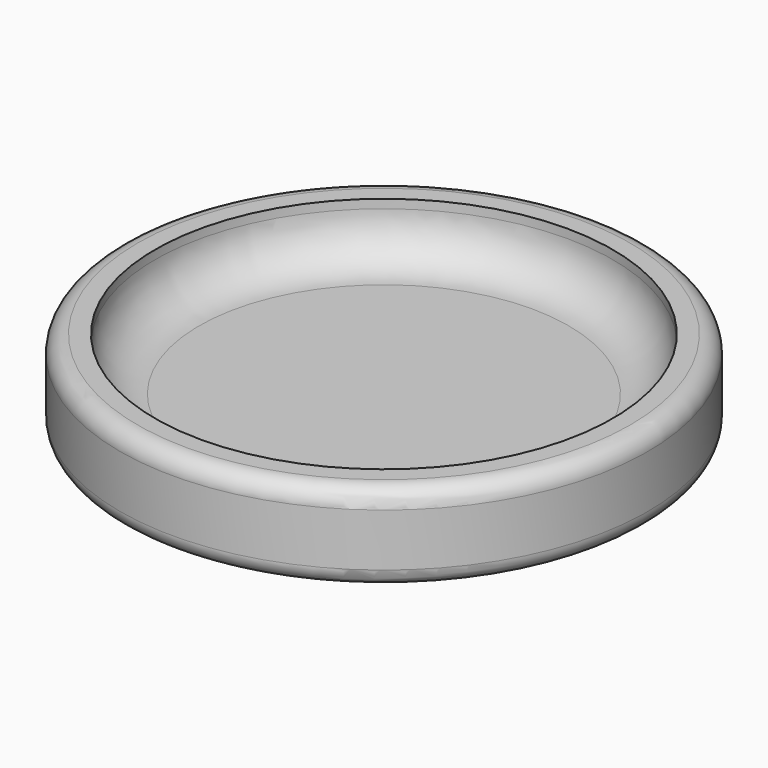
from build123d import *

# Parameters (mm, degrees)
SKETCH010_R  = 0.75
PAD003_DEPTH = 0.25
THICKNESS_T  = -0.1
FILLET_R     = 0.125
FILLET001_R  = 0.05


with BuildPart() as part:
    # Sketch010 → Pad003 (new body)
    with BuildSketch(Plane(origin=(3.75, 3.85, 7), x_dir=(0, 1, 0), z_dir=(0, 0, 1))):
        Circle(SKETCH010_R)
    extrude(amount=PAD003_DEPTH)

    # Thickness
    thickness_openings = [part.faces().sort_by_distance(p)[0] for p in [
        (3.75, 3.85, 7.25),
    ]]
    offset(amount=THICKNESS_T, openings=thickness_openings)

    # Fillet
    fillet_edges = [part.edges().sort_by_distance(p)[0] for p in [
        (3.75, 3.2, 7.1),
    ]]
    fillet(fillet_edges, radius=FILLET_R)

    # Fillet001
    fillet001_edges = [part.edges().sort_by_distance(p)[0] for p in [
        (3.75, 3.1, 7.25),
        (3.75, 3.1, 7),
    ]]
    fillet(fillet001_edges, radius=FILLET001_R)


solid = part.part
